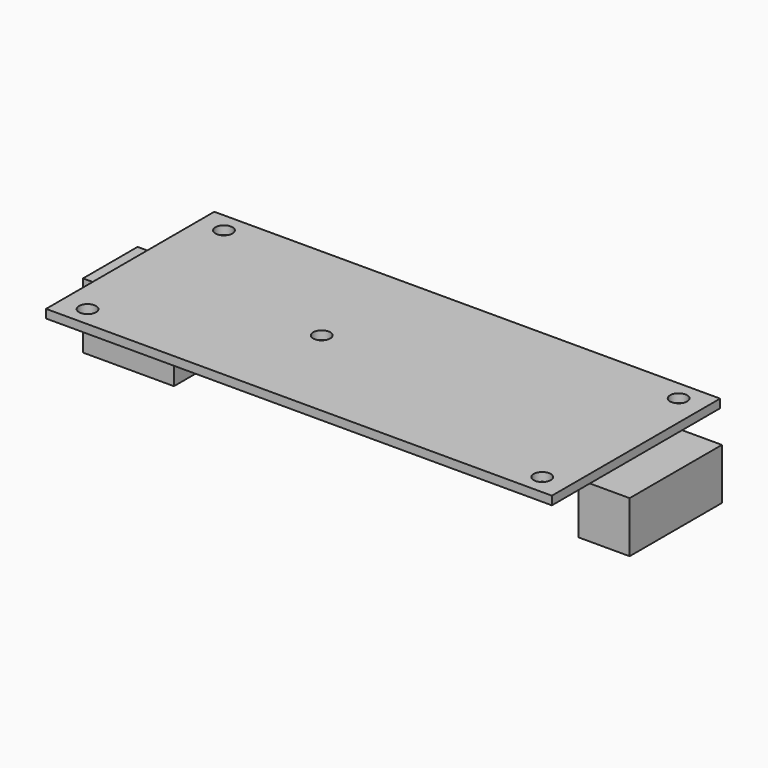
from build123d import *

# Parameters (mm, degrees)
F0_W     = 89
F0_H     = 37
F0_R     = 1.5
F1_DEPTH = 1.5
F2_W     = 12.5
F2_H     = 12
F2_W_2   = 3.5
F3_DEPTH = 11.5
F2_W_3   = 7
F2_H_2   = 20.3
F2_W_4   = 2
F4_DEPTH = 9


with BuildPart() as f1:
    # F0 (on Top) → F1 (new body)
    with BuildSketch(Plane.XY):
        Rectangle(F0_W, F0_H)
        with Locations((-40, -15)):
            Circle(F0_R, mode=Mode.SUBTRACT)
        with Locations((-10, -1)):
            Circle(F0_R, mode=Mode.SUBTRACT)
        with Locations((40, -15)):
            Circle(F0_R, mode=Mode.SUBTRACT)
        with Locations((-40, 15)):
            Circle(F0_R, mode=Mode.SUBTRACT)
        with Locations((40, 15)):
            Circle(F0_R, mode=Mode.SUBTRACT)
    extrude(amount=F1_DEPTH)

    # F2 (on face) → F3 (join)
    with BuildSketch(Plane(origin=(0, 0, 0), x_dir=(1, 0, 0), z_dir=(0, 0, -1))):
        with Locations((-38.25, 0)):
            Rectangle(F2_W, F2_H)
        with Locations((-46.25, 0)):
            Rectangle(F2_W_2, F2_H)
    extrude(amount=F3_DEPTH)

    # F2 (on face) → F4 (join)
    with BuildSketch(Plane(origin=(0, 0, 0), x_dir=(1, 0, 0), z_dir=(0, 0, -1))):
        with Locations((48, 0)):
            Rectangle(F2_W_3, F2_H_2)
        with Locations((43.5, 0)):
            Rectangle(F2_W_4, F2_H_2)
    extrude(amount=F4_DEPTH)


solid = f1.part
